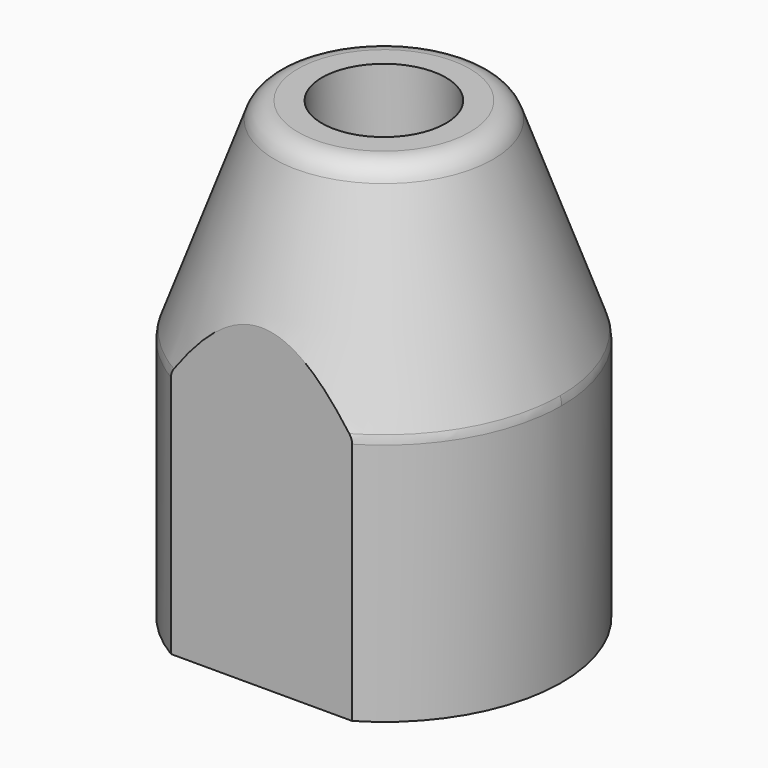
from build123d import *

# Parameters (mm, degrees)
F0_R           = 21.5
F1_DEPTH       = 30
F3_R           = 12.5
F1_FACE_R      = 21.5
F6_D           = 9
F6_CBORE_D     = 15
F6_CBORE_DEPTH = 8
F8_W           = 85.0306809905
F8_H           = 45
F9_DEPTH       = 3
F10_R          = 3
F11_R          = 3


with BuildPart() as f1:
    # F0 (on Top) → F1 (new body)
    with BuildSketch(Plane.XY):
        Circle(F0_R)
    extrude(amount=F1_DEPTH)

    # F3 (on offset) → F4 section 0
    with BuildSketch(Plane.XY.offset(55)):
        Circle(F3_R)
    # F1_face (on face) → F4 section 1
    with BuildSketch(Plane.XY.offset(30)):
        Circle(F1_FACE_R)
    loft()

    # F6 (through all)
    with Locations(Plane.XY.offset(55)):
        with Locations((0, 0)):
            CounterBoreHole(F6_D / 2, F6_CBORE_D / 2, F6_CBORE_DEPTH)

    # F8 (on offset) → F9 (cut)
    with BuildSketch(Plane.XZ.offset(21.5)):
        with Locations((-2.4846551881, 22.5)):
            Rectangle(F8_W, F8_H)
    extrude(amount=-F9_DEPTH, mode=Mode.SUBTRACT)

    # F10
    f10_edges = [f1.edges().sort_by_distance(p)[0] for p in [
        (-12.5, 0, 55),
    ]]
    fillet(f10_edges, radius=F10_R)

    # F11
    f11_edges = [f1.edges().sort_by_distance(p)[0] for p in [
        (18.678473, -10.647284, 30),
        (-10.647284, 18.678473, 30),
    ]]
    fillet(f11_edges, radius=F11_R)


solid = f1.part
